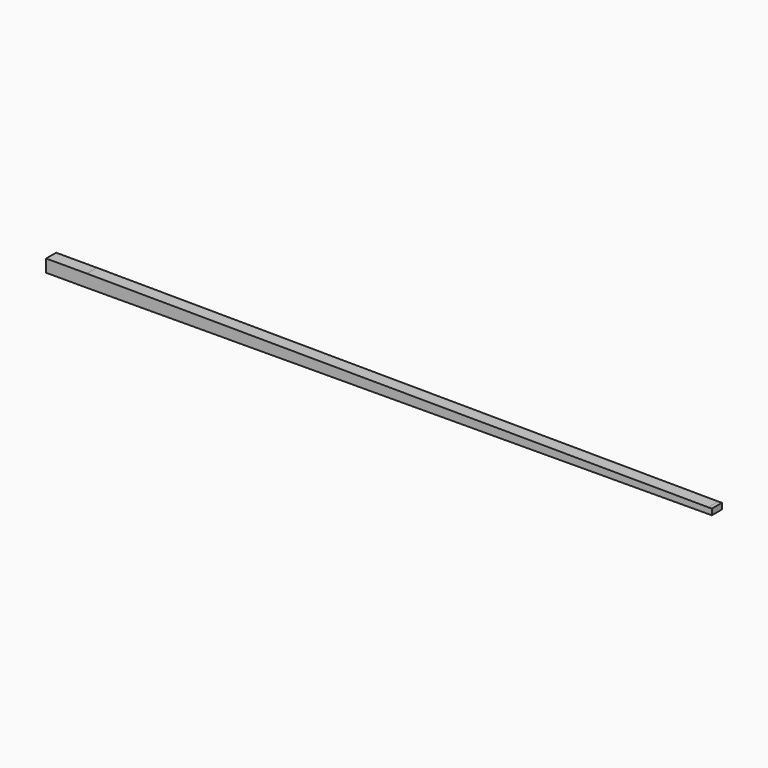
from build123d import *

# Parameters (mm, degrees)
F1_DEPTH = 43.18
F2_W     = 43.18
F2_H     = 43.18
F3_DEPTH = 139.7
F4_W     = 43.18
F4_H     = 20.32
F5_DEPTH = 12.7


with BuildPart() as f1:
    # F0 (on Front) → F1 (new body)
    with BuildSketch(Plane.XZ):
        Polygon((0, 43.18), (0, 0), (2133.6, 10.16), (2133.503239, 30.47977), align=None)
    extrude(amount=F1_DEPTH)

    # F2 (on face) → F3 (join)
    with BuildSketch(Plane(origin=(0, 0, 0), x_dir=(0, -1, 0), z_dir=(-1, 0, 0))):
        with Locations((21.59, 21.59)):
            Rectangle(F2_W, F2_H)
    extrude(amount=F3_DEPTH)

    # F4 (on face) → F5 (join)
    with BuildSketch(Plane(origin=(2133.6, 0, 10.16), x_dir=(0, 1, 0), z_dir=(0.999989, 0, 0.004762))):
        with Locations((-21.59, 10.16)):
            Rectangle(F4_W, F4_H)
    extrude(amount=F5_DEPTH)


solid = f1.part
